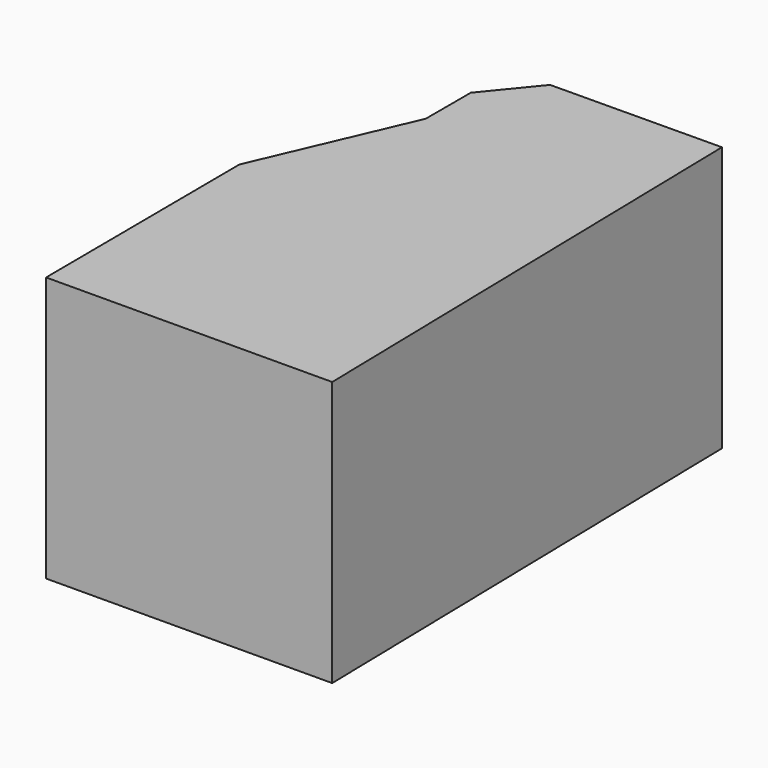
from build123d import *

# Parameters (mm, degrees)
PAD_DEPTH       = 90
SKETCH001_W     = 49.773563
SKETCH001_H     = 80.123774
POCKET_DEPTH    = 12
SKETCH002_R     = 5.887963
POCKET001_DEPTH = 5
SKETCH003_W     = 2.713595
SKETCH003_H     = 24.526356
POCKET002_DEPTH = 5


with BuildPart() as part:
    # Sketch → Pad (new body)
    with BuildSketch(Plane.XY):
        Polygon((-48.492157, 7.780759), (-47.988304, -74.853439), (48.754147, -74.349571), (45.227108, 95.453613), (-12.717616, 94.949745), (-26.322012, 78.322136), (-26.322012, 59.175186), align=None)
    extrude(amount=PAD_DEPTH)

    # Sketch001 (on Face7 of Pad) → Pocket (cut)
    with BuildSketch(Plane(origin=(-43.714137, 18.857079, 0), x_dir=(-0.396091, -0.918211, 0), z_dir=(-0.918211, 0.396091, 0))):
        with Locations((-15.26545, 45.985601)):
            Rectangle(SKETCH001_W, SKETCH001_H)
    extrude(amount=-POCKET_DEPTH, mode=Mode.SUBTRACT)

    # Sketch002 (on Face6 of Pocket) → Pocket001 (cut)
    with BuildSketch(Plane(origin=(-26.322012, 0, 0), x_dir=(0, -1, 0), z_dir=(-1, 0, 0))):
        with Locations((-67.568731, 49.26139)):
            Circle(SKETCH002_R)
    extrude(amount=-POCKET001_DEPTH, mode=Mode.SUBTRACT)

    # Sketch003 (on Face1 of Pocket001) → Pocket002 (cut)
    with BuildSketch(Plane(origin=(-48.442914, -0.295375, 0), x_dir=(0.006097, -0.999981, 0), z_dir=(-0.999981, -0.006097, 0))):
        with Locations((11.426969, 18.839719)):
            Rectangle(SKETCH003_W, SKETCH003_H)
    extrude(amount=-POCKET002_DEPTH, mode=Mode.SUBTRACT)


solid = part.part
